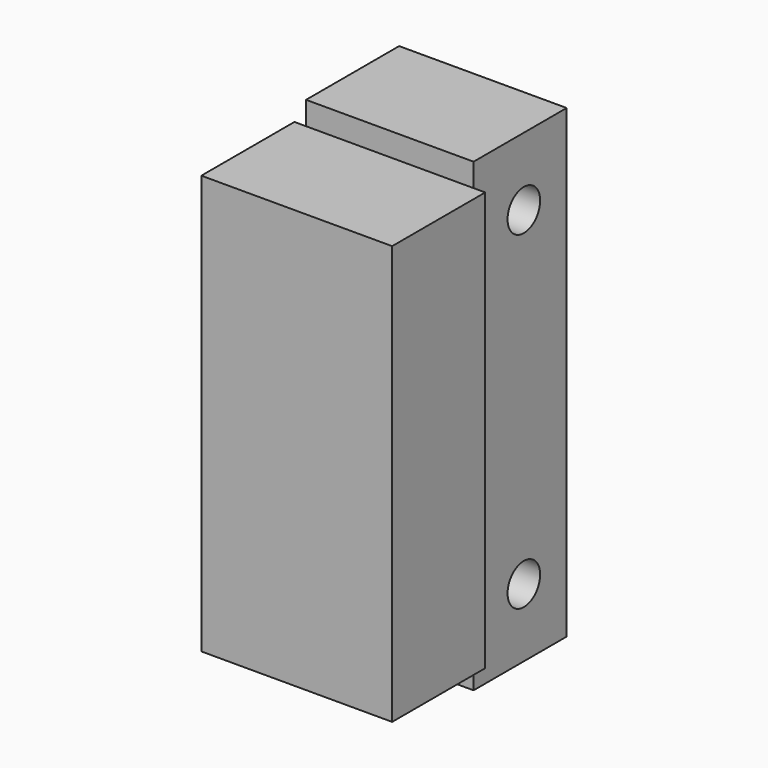
from build123d import *

# Parameters (mm, degrees)
F0_W     = 41.656
F0_H     = 91.44
F1_DEPTH = 25.4
F2_W     = 36.576
F2_H     = 101.6
F3_DEPTH = 25.4
F4_R     = 4.445
F5_DEPTH = 36.576


with BuildPart() as f1:
    # F0 (on Front) → F1 (new body)
    with BuildSketch(Plane.XZ):
        Rectangle(F0_W, F0_H)
    extrude(amount=F1_DEPTH)

    # F2 (on Front) → F3 (join)
    with BuildSketch(Plane.XZ):
        Rectangle(F2_W, F2_H)
    extrude(amount=-F3_DEPTH)

    # F4 (on face) → F5 (cut, through all)
    with BuildSketch(Plane.YZ.offset(18.288)):
        with Locations((13.716, 35.941)):
            Circle(F4_R)
        with Locations((13.716, -35.941)):
            Circle(F4_R)
    extrude(amount=-F5_DEPTH, mode=Mode.SUBTRACT)


solid = f1.part
